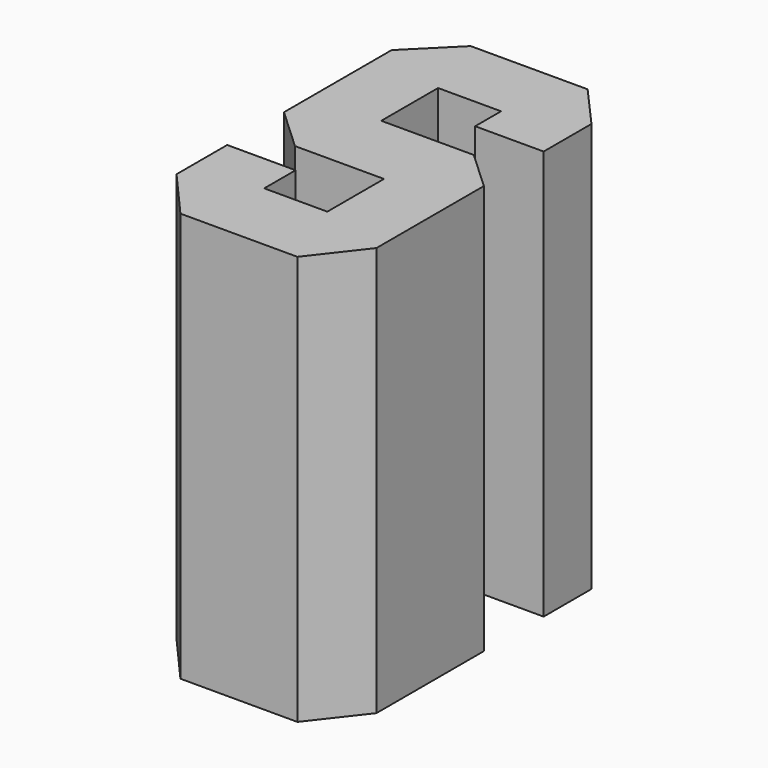
from build123d import *

# Parameters (mm, degrees)
F1_DEPTH = 25.4


with BuildPart() as f1:
    # F0 (on Top) → F1 (new body)
    with BuildSketch(Plane.XY):
        Polygon((12.398482, -2.722225), (9.981754, 0), (2.728565, 0), (0, -2.722225), (0, -11.065528), (2.633546, -13.506851), (8.156682, -13.506851), (8.156682, -17.901051), (4.2418, -17.901051), (4.2418, -15.468937), (0, -15.468937), (0, -19.396728), (2.728565, -22.505923), (9.981754, -22.505923), (12.398482, -19.396728), (12.398482, -11.065528), (9.981754, -8.825197), (4.2418, -8.825197), (4.2418, -4.421788), (8.149578, -4.421788), (8.149578, -6.43036), (12.398482, -6.43036), align=None)
    extrude(amount=F1_DEPTH)


solid = f1.part
